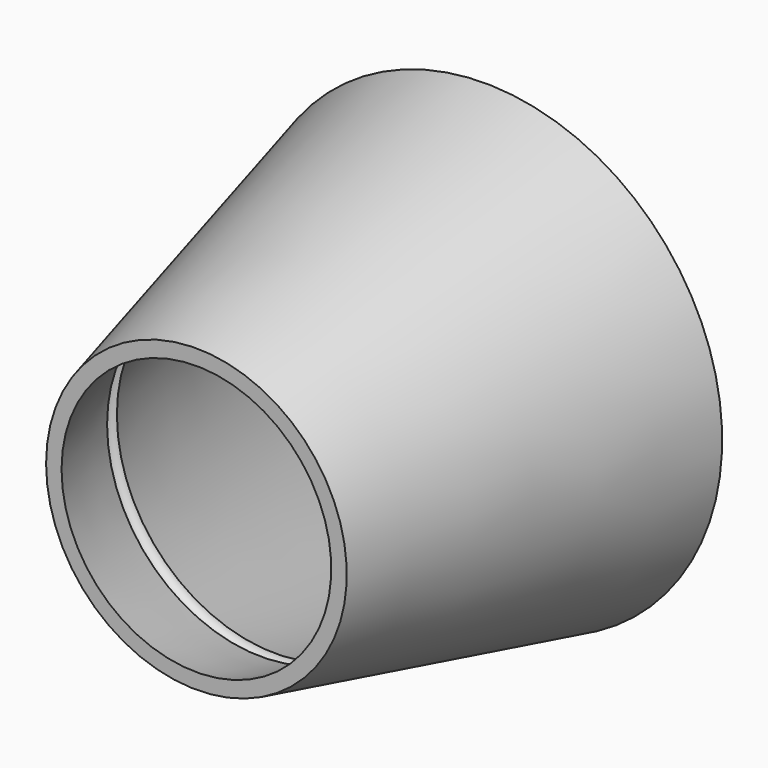
from build123d import *

# Parameters (mm, degrees)
F2_T = -2.5
F3_R = 1.5


with BuildPart() as f1:
    # F0 (on Top) → F1 (revolve)
    with BuildSketch(Plane.XY):
        Polygon((-39.429533, 60), (-25, 0), (0, 0), (0, 60), align=None)
    revolve(axis=Axis((0, 30, 0), (0, -1, 0)))

    # F2
    f2_openings = [f1.faces().sort_by_distance(p)[0] for p in [
        (0, 60, 0),
        (0, 0, 0),
    ]]
    offset(amount=F2_T, openings=f2_openings)

    # F3 (on Right) → F4 (revolve, cut)
    with BuildSketch(Plane.YZ):
        with Locations((15, 26)):
            Circle(F3_R)
    revolve(axis=Axis((0, 19.297946, 0), (0, 1, 0)), mode=Mode.SUBTRACT)


solid = f1.part
